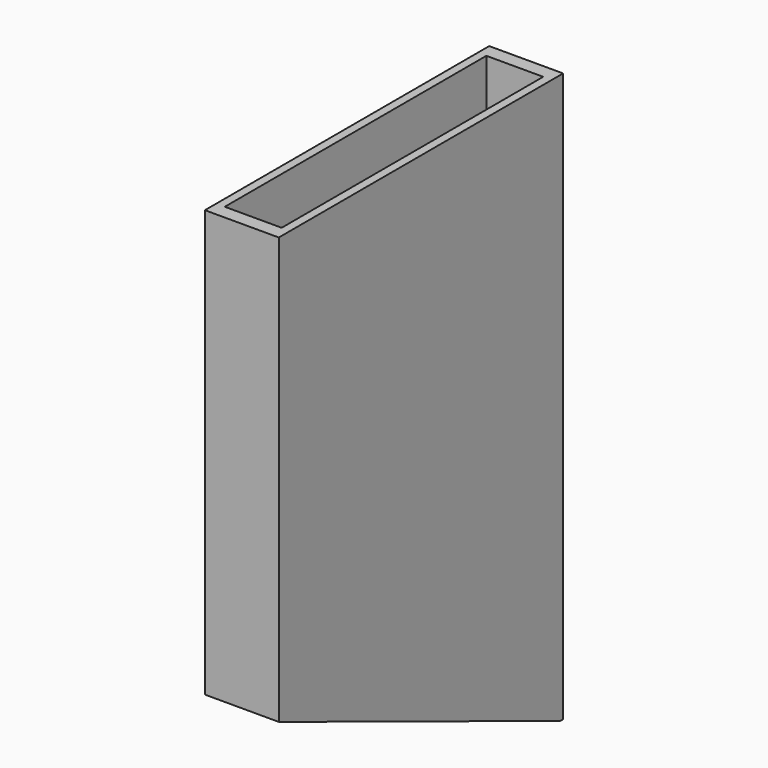
from build123d import *

# Parameters (mm, degrees)
F0_W     = 31.75
F0_H     = 50.8
F1_DEPTH = 6.604
F2_SIZE2 = 31.433603
F2_SIZE  = 12.7
F4_DEPTH = 38.1


with BuildPart() as f1:
    # F0 (on Right) → F1 (new body)
    with BuildSketch(Plane.YZ):
        with Locations((-15.875, -3.497973)):
            Rectangle(F0_W, F0_H)
    extrude(amount=F1_DEPTH)

    # F2
    f2_edges = [f1.edges().sort_by_distance(p)[0] for p in [
        (3.302, -31.75, -28.897973),
    ]]
    chamfer(f2_edges, length=F2_SIZE, length2=F2_SIZE2)

    # F3 (on face) → F4 (cut)
    with BuildSketch(Plane.XY.offset(21.902027)):
        Polygon((0.762, -30.48), (3.302, -30.48), (5.842, -30.48), (5.842, -1.27), (3.302, -1.27), (0.762, -1.27), align=None)
    extrude(amount=-F4_DEPTH, mode=Mode.SUBTRACT)


solid = f1.part
